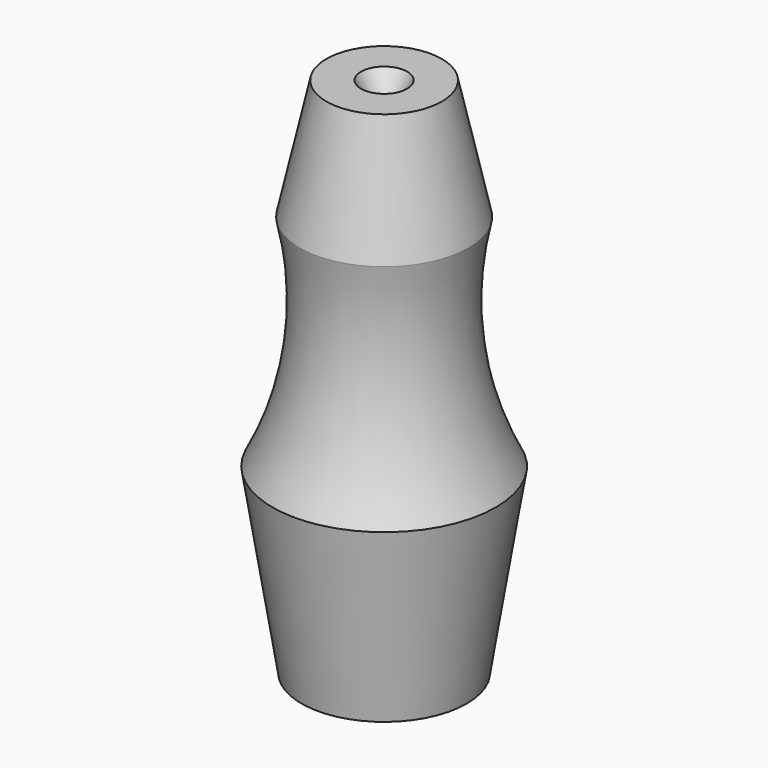
from build123d import *


with BuildPart() as f1:
    # F0 (on Front) → F1 (revolve)
    with BuildSketch(Plane.XZ):
        with BuildLine():
            Line((-3.452752, 10.541567), (-4.826034, 10.541567))
            Line((-4.826034, 10.541567), (-5.358636, 9.638746))
            Line((-5.358636, 9.638746), (-5.358636, 8.968834))
            Line((-5.358636, 8.968834), (-5.743319, 8.968834))
            Line((-5.743319, 8.968834), (-5.743319, 8.065155))
            Line((-5.743319, 8.065155), (-4.443319, 8.065155))
            Line((-4.443319, 8.065155), (-3.317677, -10.170234))
            Line((-3.317677, -10.170234), (-2.46219, -10.170234))
            Line((-2.46219, -10.170234), (-1.314034, -2.943617))
            ThreePointArc((-1.314034, -2.943617), (-2.632422, 1.316109), (-2.394649, 5.768847))
            Line((-2.394649, 5.768847), (-3.452752, 10.541567))
        make_face()
    revolve(axis=Axis((-5.743319, 0, -0.092635), (0, 0, -1)))


solid = f1.part
